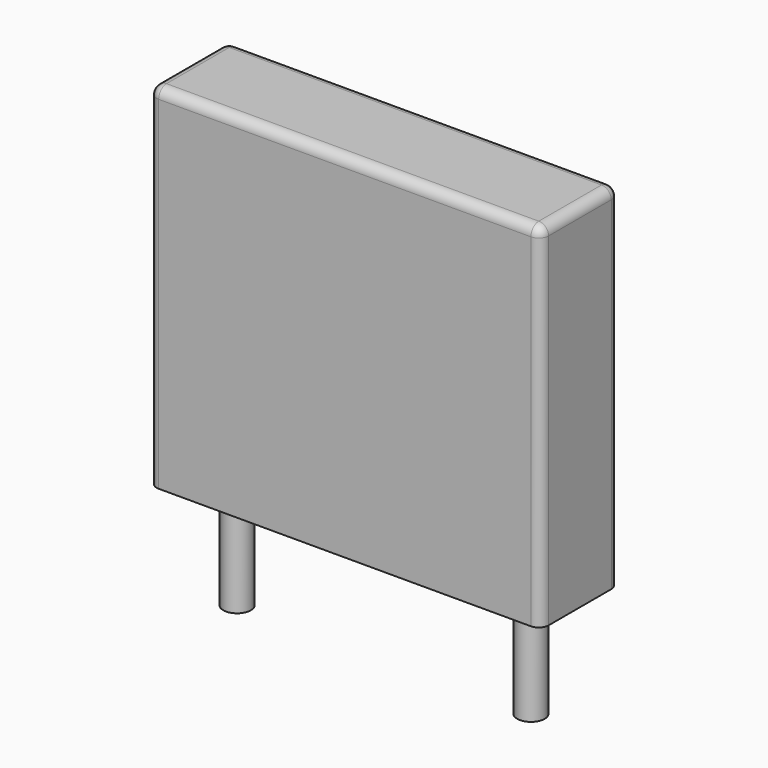
from build123d import *

# Parameters (mm, degrees)
SKETCH_W     = 10
SKETCH_H     = 2.5
PAD_DEPTH    = 9
FILLET_R     = 0.25
SKETCH001_R  = 0.35
PAD001_DEPTH = 3.2


with BuildPart() as fillet_body:
    # Sketch → Pad (new body)
    with BuildSketch(Plane.XY.offset(0.1)):
        with Locations((3.75, 0)):
            Rectangle(SKETCH_W, SKETCH_H)
    extrude(amount=PAD_DEPTH)

    # Fillet
    fillet_edges = [fillet_body.edges().sort_by_distance(p)[0] for p in [
        (-1.25, 0, 9.1),
        (-1.25, -1.25, 4.6),
        (3.75, -1.25, 9.1),
        (8.75, -1.25, 4.6),
        (8.75, 0, 9.1),
        (8.75, 1.25, 4.6),
        (3.75, 1.25, 9.1),
        (-1.25, 1.25, 4.6),
    ]]
    fillet(fillet_edges, radius=FILLET_R)


with BuildPart() as pad001:
    # Sketch001 → Pad001 (new body)
    with BuildSketch(Plane.XY.offset(0.5)):
        Circle(SKETCH001_R)
        with Locations((7.5, 0)):
            Circle(SKETCH001_R)
    extrude(amount=-PAD001_DEPTH)


solid = Compound([fillet_body.part, pad001.part])
